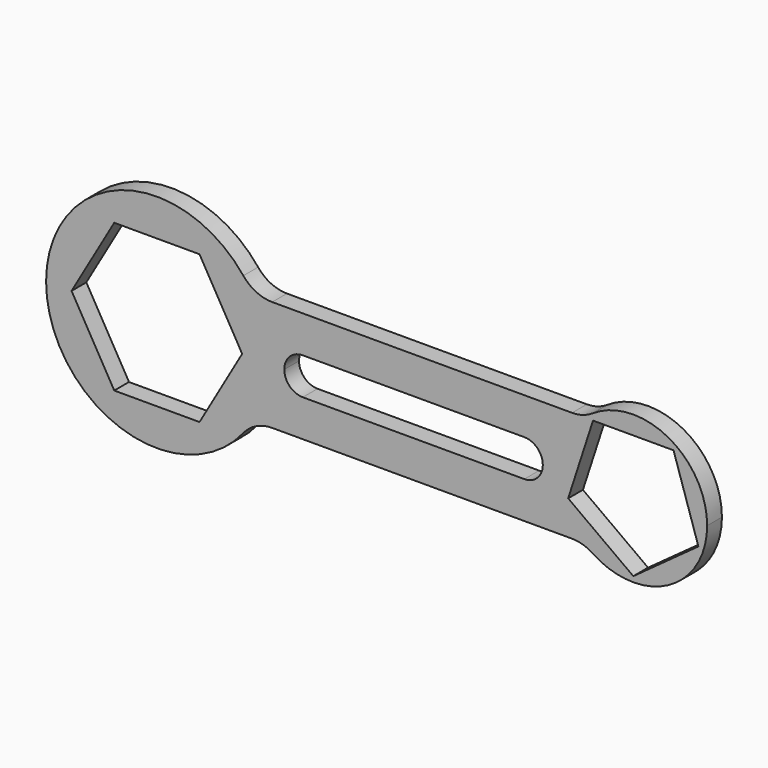
from build123d import *

# Parameters (mm, degrees)
F1_DEPTH = 127


with BuildPart() as f1:
    # F0 (on Front) → F1 (new body)
    with BuildSketch(Plane.XZ):
        with BuildLine():
            Line((2940.589583, -381), (2855.388652, -381))
            ThreePointArc((2855.388652, -381), (2928.712136, -391.813515), (2995.792434, -423.333333))
            ThreePointArc((2995.792434, -423.333333), (2967.465509, -403.112722), (2940.589583, -381))
        make_face()
        with BuildLine():
            ThreePointArc((594.836059, -476.25), (718.995507, -252.367711), (762, 0))
            ThreePointArc((762, 0), (718.995507, 252.367711), (594.836059, 476.25))
            ThreePointArc((594.836059, 476.25), (-762, 0), (594.836059, -476.25))
        make_face()
        Polygon((-586.587873, 0), (-293.293937, 508), (293.293937, 508), (586.587873, 0), (293.293937, -508), (-293.293937, -508), align=None, mode=Mode.SUBTRACT)
        with BuildLine():
            ThreePointArc((594.836059, 476.25), (718.995507, 252.367711), (762, 0))
            Line((762, 0), (876.3, 0))
            ThreePointArc((876.3, 0), (913.497439, 89.802561), (1003.3, 127))
            Line((1003.3, 127), (1765.3, 127))
            Line((1765.3, 127), (1765.3, 381))
            Line((1765.3, 381), (793.114746, 381))
            ThreePointArc((793.114746, 381), (683.12952, 406.047494), (594.836059, 476.25))
        make_face()
        with BuildLine():
            Line((876.3, 0), (762, 0))
            ThreePointArc((762, 0), (718.995507, -252.367711), (594.836059, -476.25))
            ThreePointArc((594.836059, -476.25), (683.12952, -406.047494), (793.114746, -381))
            Line((793.114746, -381), (1765.3, -381))
            Line((1765.3, -381), (1765.3, -127))
            Line((1765.3, -127), (1003.3, -127))
            ThreePointArc((1003.3, -127), (913.497439, -89.802561), (876.3, 0))
        make_face()
        with BuildLine():
            Line((1765.3, -127), (1765.3, -381))
            Line((1765.3, -381), (2855.388652, -381))
            Line((2855.388652, -381), (2940.589583, -381))
            ThreePointArc((2940.589583, -381), (2813.589583, -209.010417), (2768.6, 0))
            Line((2768.6, 0), (2654.3, 0))
            ThreePointArc((2654.3, 0), (2617.102561, -89.802561), (2527.3, -127))
            Line((2527.3, -127), (1765.3, -127))
        make_face()
        with BuildLine():
            Line((2855.388652, 381), (1765.3, 381))
            Line((1765.3, 381), (1765.3, 127))
            Line((1765.3, 127), (2527.3, 127))
            ThreePointArc((2527.3, 127), (2617.102561, 89.802561), (2654.3, 0))
            Line((2654.3, 0), (2768.6, 0))
            ThreePointArc((2768.6, 0), (2828.987308, 240.22256), (2995.792434, 423.333333))
            ThreePointArc((2995.792434, 423.333333), (2928.712136, 391.813515), (2855.388652, 381))
        make_face()
        with BuildLine():
            ThreePointArc((3784.6, 0), (3516.82256, 447.612692), (2995.792434, 423.333333))
            ThreePointArc((2995.792434, 423.333333), (2828.987308, 240.22256), (2768.6, 0))
            ThreePointArc((2768.6, 0), (2813.589583, -209.010417), (2940.589583, -381))
            ThreePointArc((2940.589583, -381), (2967.465509, -403.112722), (2995.792434, -423.333333))
            ThreePointArc((2995.792434, -423.333333), (3516.82256, -447.612692), (3784.6, 0))
        make_face()
        Polygon((2828.707638, -145.52905), (2999.787297, 381), (3553.412703, 381), (3724.492362, -145.52905), (3276.6, -470.941899), align=None, mode=Mode.SUBTRACT)
    extrude(amount=F1_DEPTH)


solid = f1.part
